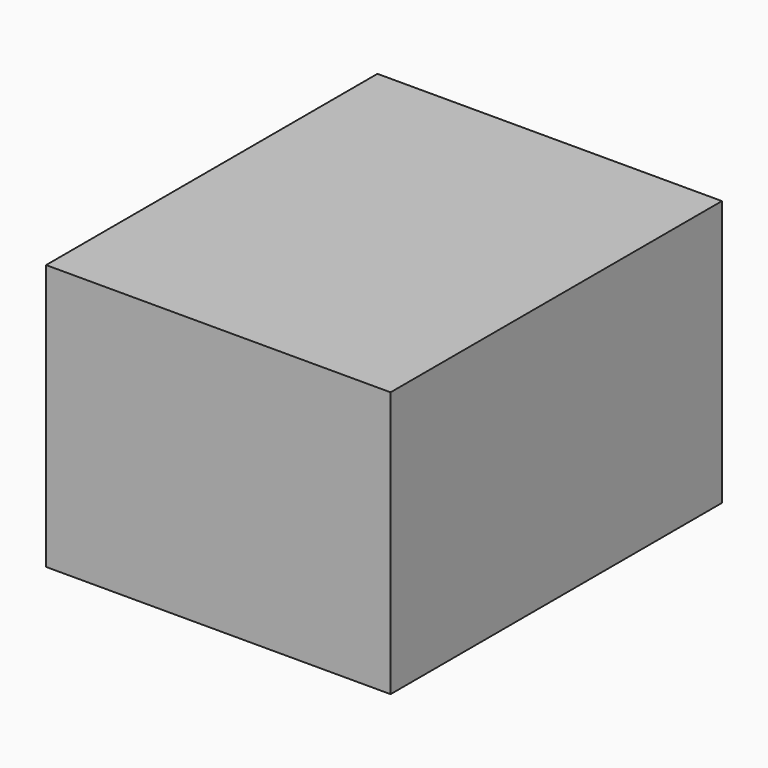
from build123d import *

# Parameters (mm, degrees)
F0_R      = 25.079521
F1_DEPTH  = 127
F0_W      = 127.388418
F0_H      = 98.275594
F2_DEPTH  = 25.4
F3_R      = 5.08
F2_FACE_W = 127.388418
F2_FACE_H = 98.275594
F4_DEPTH  = 153.162


with BuildPart() as f1:
    # F0 (on Front) → F1 (new body)
    with BuildSketch(Plane.XZ):
        Circle(F0_R)
    extrude(amount=F1_DEPTH)

    # F0 (on Front) → F2 (join)
    with BuildSketch(Plane.XZ):
        Rectangle(F0_W, F0_H)
        Circle(F0_R, mode=Mode.SUBTRACT)
    extrude(amount=F2_DEPTH)

    # F3
    f3_edges = [f1.edges().sort_by_distance(p)[0] for p in [
        (-25.079521, -25.4, 0),
        (-25.079521, -127, 0),
    ]]
    fillet(f3_edges, radius=F3_R)

    # F2_face (on face) → F4 (join)
    with BuildSketch(Plane(origin=(0, 0, 0), x_dir=(1, 0, 0), z_dir=(0, 1, 0))):
        Rectangle(F2_FACE_W, F2_FACE_H)
    extrude(amount=-F4_DEPTH)


solid = f1.part
